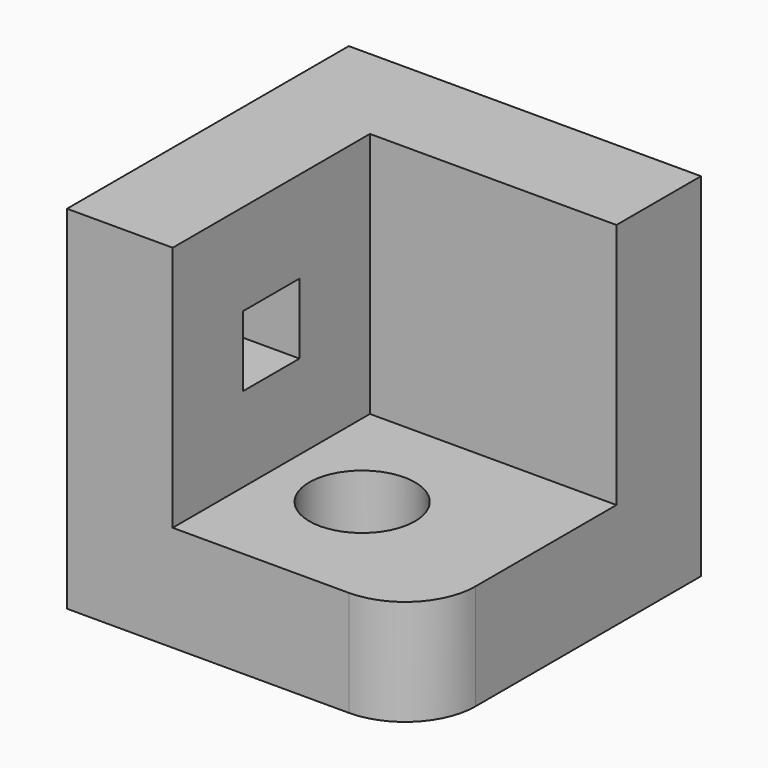
from build123d import *

# Parameters (mm, degrees)
F0_W     = 127
F0_H     = 127
F1_DEPTH = 127
F2_W     = 88.9
F2_H     = 88.9
F3_DEPTH = 88.9
F4_R     = 25.4
F5_W     = 25.4
F5_H     = 25.4
F6_DEPTH = 38.1
F8_DEPTH = 38.1


with BuildPart() as f1:
    # F0 (on Front) → F1 (new body)
    with BuildSketch(Plane.XZ):
        with Locations((-63.5, 63.5)):
            Rectangle(F0_W, F0_H)
    extrude(amount=F1_DEPTH)

    # F2 (on face) → F3 (cut)
    with BuildSketch(Plane.XZ.offset(127)):
        with Locations((-44.45, 82.55)):
            Rectangle(F2_W, F2_H)
    extrude(amount=-F3_DEPTH, mode=Mode.SUBTRACT)

    # F4
    f4_edges = [f1.edges().sort_by_distance(p)[0] for p in [
        (0, -127, 19.05),
    ]]
    fillet(f4_edges, radius=F4_R)

    # F5 (on face) → F6 (cut)
    with BuildSketch(Plane.YZ.offset(-88.9)):
        with Locations((-82.55, 81.28)):
            Rectangle(F5_W, F5_H)
    extrude(amount=-F6_DEPTH, mode=Mode.SUBTRACT)

    # F7 (on face) → F8 (cut)
    with BuildSketch(Plane.XY.offset(38.1)):
        with BuildLine():
            ThreePointArc((-38.1, -81.28), (-70.620384, -67.809616), (-57.15, -100.33))
            ThreePointArc((-57.15, -100.33), (-43.679616, -94.750384), (-38.1, -81.28))
        make_face()
    extrude(amount=-F8_DEPTH, mode=Mode.SUBTRACT)


solid = f1.part
